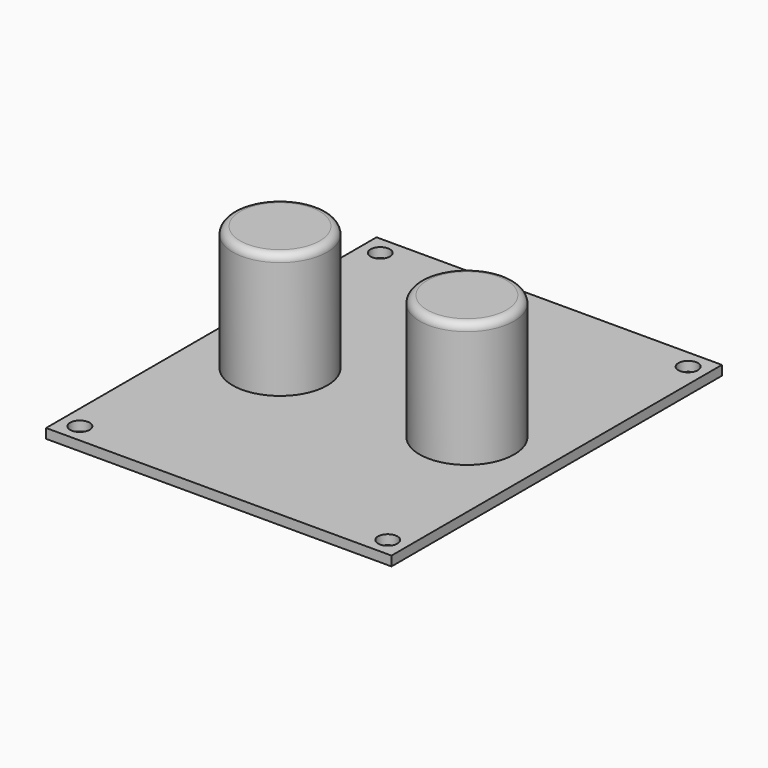
from build123d import *

# Parameters (mm, degrees)
F0_W     = 58.42
F0_H     = 69.85
F1_DEPTH = 1.61925
F2_R     = 1.651
F3_DEPTH = 25.4
F4_R     = 8.001
F5_DEPTH = 21.11375
F6_R     = 1.27


with BuildPart() as f1:
    # F0 (on Top) → F1 (new body)
    with BuildSketch(Plane.XY):
        Rectangle(F0_W, F0_H)
    extrude(amount=F1_DEPTH)

    # F2 (on face) → F3 (cut)
    with BuildSketch(Plane.XY.offset(1.61925)):
        with Locations((-26.035, -31.75)):
            Circle(F2_R)
        with Locations((26.035, -31.75)):
            Circle(F2_R)
        with Locations((-26.035, 31.75)):
            Circle(F2_R)
        with Locations((26.035, 31.75)):
            Circle(F2_R)
    extrude(amount=-F3_DEPTH, mode=Mode.SUBTRACT)

    # F4 (on face) → F5 (join)
    with BuildSketch(Plane.XY.offset(1.61925)):
        with Locations((-15.8115, -2.2225)):
            Circle(F4_R)
        with Locations((15.7988, -2.2225)):
            Circle(F4_R)
    extrude(amount=F5_DEPTH)

    # F6
    f6_edges = [f1.edges().sort_by_distance(p)[0] for p in [
        (-23.8125, -2.2225, 22.733),
        (7.7978, -2.2225, 22.733),
    ]]
    fillet(f6_edges, radius=F6_R)


solid = f1.part
